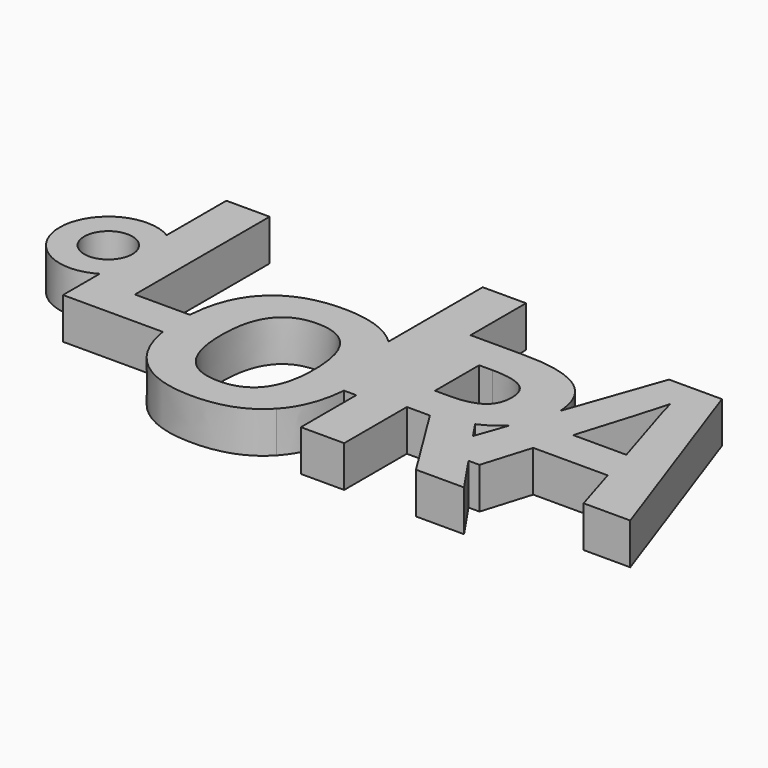
from build123d import *

# Parameters (mm, degrees)
F0_W     = 0.6158737143
F0_H     = 13.1007836608
F1_DEPTH = 4
F2_R     = 4.7264248865
F2_R_2   = 2.3334796288
F3_DEPTH = 4


with BuildPart() as f1:
    # F0 (on Top) → F1 (new body)
    with BuildSketch(Plane.XY):
        with BuildLine():
            Line((-37.283715081, 38.0084128603), (-37.283715081, 18.1776836936))
            Line((-37.283715081, 18.1776836936), (-27.5958860841, 18.1776836936))
            add(Edge.make_bspline(
                [(-27.5958860841, 18.1776836936), (-27.7759831045, 19.2835325513), (-27.7759831045, 20.5595530824)],
                knots=[0.7137061736, 0.7137061736, 0.7137061736, 1, 1, 1], degree=2))
            add(Edge.make_bspline(
                [(-27.7759831045, 20.5595530824), (-27.7759831045, 21.1214784417), (-27.7409639994, 21.6499059158)],
                knots=[0, 0, 0, 0.1260761542, 0.1260761542, 0.1260761542], degree=2))
            Line((-27.7409639994, 21.6499059158), (-33.0779859144, 21.6499059158))
            Line((-33.0779859144, 21.6499059158), (-33.0779859144, 38.0084128603))
            Line((-33.0779859144, 38.0084128603), (-37.283715081, 38.0084128603))
        make_face()
        with BuildLine():
            add(Edge.make_bspline(
                [(-27.5958860841, 18.1776836936), (-27.7759831045, 19.2835325513), (-27.7759831045, 20.5595530824)],
                knots=[0.7137061736, 0.7137061736, 0.7137061736, 1, 1, 1], degree=2))
            Line((-27.5958860841, 18.1776836936), (-25.0354511921, 18.1776836936))
            Line((-25.0354511921, 18.1776836936), (-25.0354511921, 21.6499059158))
            Line((-25.0354511921, 21.6499059158), (-27.7409639994, 21.6499059158))
            add(Edge.make_bspline(
                [(-27.7759831045, 20.5595530824), (-27.7759831045, 21.1214784417), (-27.7409639994, 21.6499059158)],
                knots=[0, 0, 0, 0.1260761542, 0.1260761542, 0.1260761542], degree=2))
        make_face()
        with BuildLine():
            Line((-25.0354511921, 18.1776836936), (-27.5958860841, 18.1776836936))
            add(Edge.make_bspline(
                [(-25.5787174795, 13.7216624574), (-27.146919521, 15.4208964917), (-27.5958860841, 18.1776836936)],
                knots=[0, 0, 0, 0.7137061736, 0.7137061736, 0.7137061736], degree=2))
            add(Edge.make_bspline(
                [(-19.2798893545, 11.3408030824), (-23.3814518545, 11.3408030824), (-25.5787174795, 13.7216624574)],
                knots=[0, 0, 0, 1, 1, 1], degree=2))
            add(Edge.make_bspline(
                [(-12.9810612295, 13.7216624574), (-15.1783268545, 11.3408030824), (-19.2798893545, 11.3408030824)],
                knots=[0, 0, 0, 1, 1, 1], degree=2))
            add(Edge.make_bspline(
                [(-10.8351730856, 19.228203094), (-11.1197866358, 15.7384568838), (-12.9810612295, 13.7216624574)],
                knots=[0.1529132516, 0.1529132516, 0.1529132516, 1, 1, 1], degree=2))
            Line((-10.8351730856, 19.228203094), (-13.228776075, 19.228203094))
            Line((-13.228776075, 19.228203094), (-13.228776075, 27.6192945451))
            add(Edge.make_bspline(
                [(-19.2564518545, 29.7158030824), (-15.3870725584, 29.7158030824), (-13.228776075, 27.6192945451)],
                knots=[0, 0, 0, 0.9407037985, 0.9407037985, 0.9407037985], degree=2))
            add(Edge.make_bspline(
                [(-25.5728581045, 27.3661937074), (-23.3697331045, 29.7158030824), (-19.2564518545, 29.7158030824)],
                knots=[0, 0, 0, 1, 1, 1], degree=2))
            add(Edge.make_bspline(
                [(-27.7409639994, 21.6499059158), (-27.4982215772, 25.3128140464), (-25.5728581045, 27.3661937074)],
                knots=[0.1260761542, 0.1260761542, 0.1260761542, 1, 1, 1], degree=2))
            Line((-27.7409639994, 21.6499059158), (-25.0354511921, 21.6499059158))
            Line((-25.0354511921, 21.6499059158), (-25.0354511921, 18.1776836936))
        make_face()
        with BuildLine():
            add(Edge.make_bspline(
                [(-23.8072331045, 20.5361155824), (-23.8072331045, 17.5439280824), (-22.6724674795, 16.0302562074)],
                knots=[0, 0, 0, 1, 1, 1], degree=2))
            add(Edge.make_bspline(
                [(-22.6607487295, 25.0439280824), (-23.8072331045, 23.5243968324), (-23.8072331045, 20.5361155824)],
                knots=[0, 0, 0, 1, 1, 1], degree=2))
            add(Edge.make_bspline(
                [(-19.2564518545, 26.5634593324), (-21.5142643545, 26.5634593324), (-22.6607487295, 25.0439280824)],
                knots=[0, 0, 0, 1, 1, 1], degree=2))
            add(Edge.make_bspline(
                [(-14.7525456045, 20.5361155824), (-14.7525456045, 26.5634593324), (-19.2564518545, 26.5634593324)],
                knots=[0, 0, 0, 1, 1, 1], degree=2))
            add(Edge.make_bspline(
                [(-19.2798893545, 14.5165843324), (-14.7525456045, 14.5165843324), (-14.7525456045, 20.5361155824)],
                knots=[0, 0, 0, 1, 1, 1], degree=2))
            add(Edge.make_bspline(
                [(-22.6724674795, 16.0302562074), (-21.5377018545, 14.5165843324), (-19.2798893545, 14.5165843324)],
                knots=[0, 0, 0, 1, 1, 1], degree=2))
        make_face(mode=Mode.SUBTRACT)
        with BuildLine():
            Line((-13.228776075, 19.228203094), (-10.8351730856, 19.228203094))
            add(Edge.make_bspline(
                [(-10.7837956045, 20.5361155824), (-10.7837956045, 19.8581603459), (-10.8351730856, 19.228203094)],
                knots=[0, 0, 0, 0.1529132516, 0.1529132516, 0.1529132516], degree=2))
            add(Edge.make_bspline(
                [(-12.9634831045, 27.3466624574), (-10.7837956045, 24.9775218324), (-10.7837956045, 20.5361155824)],
                knots=[0, 0, 0, 1, 1, 1], degree=2))
            add(Edge.make_bspline(
                [(-13.228776075, 27.6192945451), (-13.0927302937, 27.4871434973), (-12.9634831045, 27.3466624574)],
                knots=[0.9407037985, 0.9407037985, 0.9407037985, 1, 1, 1], degree=2))
            Line((-13.228776075, 27.6192945451), (-13.228776075, 19.228203094))
        make_face()
        with BuildLine():
            add(Edge.make_bspline(
                [(-10.7837956045, 20.5361155824), (-10.7837956045, 19.8581603459), (-10.8351730856, 19.228203094)],
                knots=[0, 0, 0, 0.1529132516, 0.1529132516, 0.1529132516], degree=2))
            Line((-10.8351730856, 19.228203094), (-9.6389206226, 19.228203094))
            Line((-9.6389206226, 19.228203094), (-9.6389206226, 32.3289867548))
            Line((-9.6389206226, 32.3289867548), (-9.0230469083, 32.3289867548))
            Line((-9.0230469083, 32.3289867548), (-9.0230469083, 39.0589322607))
            Line((-9.0230469083, 39.0589322607), (-13.228776075, 39.0589322607))
            Line((-13.228776075, 39.0589322607), (-13.228776075, 27.6192945451))
            add(Edge.make_bspline(
                [(-13.228776075, 27.6192945451), (-13.0927302937, 27.4871434973), (-12.9634831045, 27.3466624574)],
                knots=[0.9407037985, 0.9407037985, 0.9407037985, 1, 1, 1], degree=2))
            add(Edge.make_bspline(
                [(-12.9634831045, 27.3466624574), (-10.7837956045, 24.9775218324), (-10.7837956045, 20.5361155824)],
                knots=[0, 0, 0, 1, 1, 1], degree=2))
        make_face()
        with Locations((-9.3309837654, 25.7785949244)):
            Rectangle(F0_W, F0_H)
        with BuildLine():
            Line((-9.0230469083, 19.228203094), (-9.6389206226, 19.228203094))
            Line((-9.6389206226, 19.228203094), (-9.6389206226, 12.4982575881))
            Line((-9.6389206226, 12.4982575881), (-5.4331914559, 12.4982575881))
            Line((-5.4331914559, 12.4982575881), (-5.4331914559, 20.1067645326))
            Line((-5.4331914559, 20.1067645326), (-3.1979484003, 20.1067645326))
            Line((-3.1979484003, 20.1067645326), (1.5372946552, 12.4982575881))
            Line((1.5372946552, 12.4982575881), (6.2030932663, 12.4982575881))
            add(Edge.make_bspline(
                [(3.7338970639, 16.1299808387), (5.4507652179, 13.5833461195), (6.2030932663, 12.4982575881)],
                knots=[0.4444346719, 0.4444346719, 0.4444346719, 1, 1, 1], degree=2))
            Line((3.7338970639, 16.1299808387), (0.2728733631, 16.1299808387))
            Line((0.2728733631, 16.1299808387), (1.4614468222, 19.5107465115))
            add(Edge.make_bspline(
                [(0.369759933, 21.1397506437), (0.9410184247, 20.2867377215), (1.4614468222, 19.5107465115)],
                knots=[0, 0, 0, 0.1275367795, 0.1275367795, 0.1275367795], degree=2))
            add(Edge.make_bspline(
                [(2.5534989348, 22.6169678955), (1.6846822939, 21.7148272536), (0.369759933, 21.1397506437)],
                knots=[0.2556311745, 0.2556311745, 0.2556311745, 1, 1, 1], degree=2))
            Line((2.5534989348, 22.6169678955), (4.0462793726, 26.8630166548))
            add(Edge.make_bspline(
                [(2.1210620163, 30.8576325881), (3.902011744, 29.5054669494), (4.0462793726, 26.8630166548)],
                knots=[0, 0, 0, 0.9189939916, 0.9189939916, 0.9189939916], degree=2))
            add(Edge.make_bspline(
                [(-3.8620109003, 32.3289867548), (0.1831279885, 32.3289867548), (2.1210620163, 30.8576325881)],
                knots=[0, 0, 0, 1, 1, 1], degree=2))
            Line((-3.8620109003, 32.3289867548), (-9.0230469083, 32.3289867548))
            Line((-9.0230469083, 32.3289867548), (-9.0230469083, 19.228203094))
        make_face()
        with BuildLine():
            Line((-4.0790247892, 23.5269034215), (-5.4331914559, 23.5269034215))
            Line((-5.4331914559, 23.5269034215), (-5.4331914559, 28.8828061992))
            Line((-5.4331914559, 28.8828061992), (-4.1571497892, 28.8828061992))
            add(Edge.make_bspline(
                [(-1.1558477059, 28.2860180048), (-2.1258997892, 28.8828061992), (-4.1571497892, 28.8828061992)],
                knots=[0, 0, 0, 1, 1, 1], degree=2))
            add(Edge.make_bspline(
                [(-0.1857956226, 26.2786395326), (-0.1857956226, 27.6892298103), (-1.1558477059, 28.2860180048)],
                knots=[0, 0, 0, 1, 1, 1], degree=2))
            add(Edge.make_bspline(
                [(-1.134146317, 24.1909659215), (-0.1857956226, 24.8550284215), (-0.1857956226, 26.2786395326)],
                knots=[0, 0, 0, 1, 1, 1], degree=2))
            add(Edge.make_bspline(
                [(-4.0790247892, 23.5269034215), (-2.0824970115, 23.5269034215), (-1.134146317, 24.1909659215)],
                knots=[0, 0, 0, 1, 1, 1], degree=2))
        make_face(mode=Mode.SUBTRACT)
        with BuildLine():
            Line((7.2737414187, 36.0431752831), (4.0462793726, 26.8630166548))
            add(Edge.make_bspline(
                [(4.0462793726, 26.8630166548), (4.0589960441, 26.6300941845), (4.0589960441, 26.387146477)],
                knots=[0.9189939916, 0.9189939916, 0.9189939916, 1, 1, 1], degree=2))
            add(Edge.make_bspline(
                [(4.0589960441, 26.387146477), (4.0589960441, 24.6380145326), (3.0976245163, 23.2751673103)],
                knots=[0, 0, 0, 1, 1, 1], degree=2))
            add(Edge.make_bspline(
                [(3.0976245163, 23.2751673103), (2.8518679835, 22.9267810742), (2.5534989348, 22.6169678955)],
                knots=[0, 0, 0, 0.2556311745, 0.2556311745, 0.2556311745], degree=2))
            Line((2.5534989348, 22.6169678955), (1.4614468222, 19.5107465115))
            add(Edge.make_bspline(
                [(1.4614468222, 19.5107465115), (2.7545848714, 17.5825970016), (3.7338970639, 16.1299808387)],
                knots=[0.1275367795, 0.1275367795, 0.1275367795, 0.4444346719, 0.4444346719, 0.4444346719], degree=2))
            Line((3.7338970639, 16.1299808387), (4.8041233631, 16.1299808387))
            Line((4.8041233631, 16.1299808387), (6.2407553076, 20.8522030609))
            Line((6.2407553076, 20.8522030609), (13.4716580853, 20.8522030609))
            Line((13.4716580853, 20.8522030609), (14.9082900298, 16.1299808387))
            Line((14.9082900298, 16.1299808387), (19.4395400298, 16.1299808387))
            Line((19.4395400298, 16.1299808387), (12.4126303076, 36.0431752831))
            Line((12.4126303076, 36.0431752831), (7.2737414187, 36.0431752831))
        make_face()
        with BuildLine():
            add(Edge.make_bspline(
                [(12.4647136409, 24.3765086165), (10.4725261409, 30.791439172), (10.2207900298, 31.6334530609)],
                knots=[0, 0, 0, 1, 1, 1], degree=2))
            Line((12.4647136409, 24.3765086165), (7.2997830853, 24.3765086165))
            add(Edge.make_bspline(
                [(9.8605469742, 32.9615780609), (9.4134983631, 31.2254669498), (7.2997830853, 24.3765086165)],
                knots=[0, 0, 0, 1, 1, 1], degree=2))
            add(Edge.make_bspline(
                [(10.2207900298, 31.6334530609), (9.9690539187, 32.4754669498), (9.8605469742, 32.9615780609)],
                knots=[0, 0, 0, 1, 1, 1], degree=2))
        make_face(mode=Mode.SUBTRACT)
        with BuildLine():
            add(Edge.make_bspline(
                [(4.0462793726, 26.8630166548), (4.0589960441, 26.6300941845), (4.0589960441, 26.387146477)],
                knots=[0.9189939916, 0.9189939916, 0.9189939916, 1, 1, 1], degree=2))
            Line((4.0462793726, 26.8630166548), (2.5534989348, 22.6169678955))
            add(Edge.make_bspline(
                [(3.0976245163, 23.2751673103), (2.8518679835, 22.9267810742), (2.5534989348, 22.6169678955)],
                knots=[0, 0, 0, 0.2556311745, 0.2556311745, 0.2556311745], degree=2))
            add(Edge.make_bspline(
                [(4.0589960441, 26.387146477), (4.0589960441, 24.6380145326), (3.0976245163, 23.2751673103)],
                knots=[0, 0, 0, 1, 1, 1], degree=2))
        make_face()
        with BuildLine():
            add(Edge.make_bspline(
                [(1.4614468222, 19.5107465115), (2.7545848714, 17.5825970016), (3.7338970639, 16.1299808387)],
                knots=[0.1275367795, 0.1275367795, 0.1275367795, 0.4444346719, 0.4444346719, 0.4444346719], degree=2))
            Line((1.4614468222, 19.5107465115), (0.2728733631, 16.1299808387))
            Line((0.2728733631, 16.1299808387), (3.7338970639, 16.1299808387))
        make_face()
    extrude(amount=F1_DEPTH)

    # F2 (on Top) → F3 (join)
    with BuildSketch(Plane.XY):
        with Locations((-39.6957695484, 26.6952458769)):
            Circle(F2_R)
        with Locations((-39.6957695484, 26.6952458769)):
            Circle(F2_R_2, mode=Mode.SUBTRACT)
    extrude(amount=F3_DEPTH)


solid = f1.part
